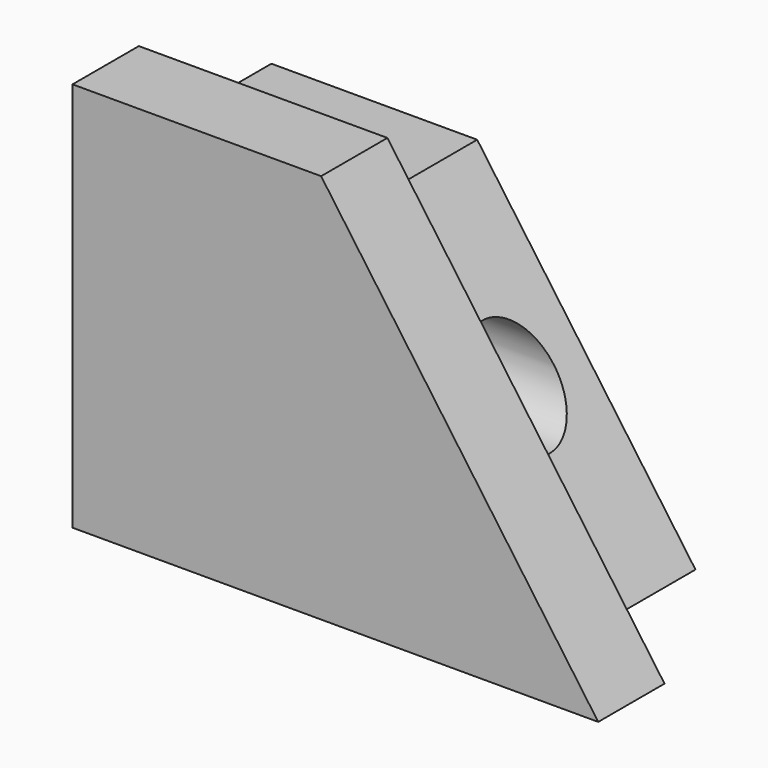
from build123d import *

# Parameters (mm, degrees)
F1_DEPTH = 25.4
F2_DEPTH = 12.7
F3_R     = 7.2804284813
F4_DEPTH = 63.5


with BuildPart() as f1:
    # F0 (on Front) → F1 (new body)
    with BuildSketch(Plane.XZ):
        Polygon((-27.2746011741, 6.805870682), (-27.2746011741, -40.3181260384), (37.7226605214, -40.3181260384), (4.2666643036, 6.805870682), align=None)
    extrude(amount=-F1_DEPTH)

    # F0 (on Front) → F2 (join)
    with BuildSketch(Plane.XZ):
        Polygon((-27.2746011741, 6.805870682), (-27.2746011741, -40.3181260384), (37.7226605214, -40.3181260384), (4.2666643036, 6.805870682), align=None)
        Polygon((4.2666643036, 6.805870682), (37.7226605214, -40.3181260384), (53.2978448683, -40.3181260384), (10.8253988259, 19.505870682), (-27.2746011741, 19.505870682), (-27.2746011741, 6.805870682), align=None)
    extrude(amount=F2_DEPTH)

    # F3 (on Right) → F4 (cut, symmetric)
    with BuildSketch(Plane.YZ):
        with Locations((12.5511875376, -16.0490572453)):
            Circle(F3_R)
    extrude(amount=F4_DEPTH, both=True, mode=Mode.SUBTRACT)


solid = f1.part
